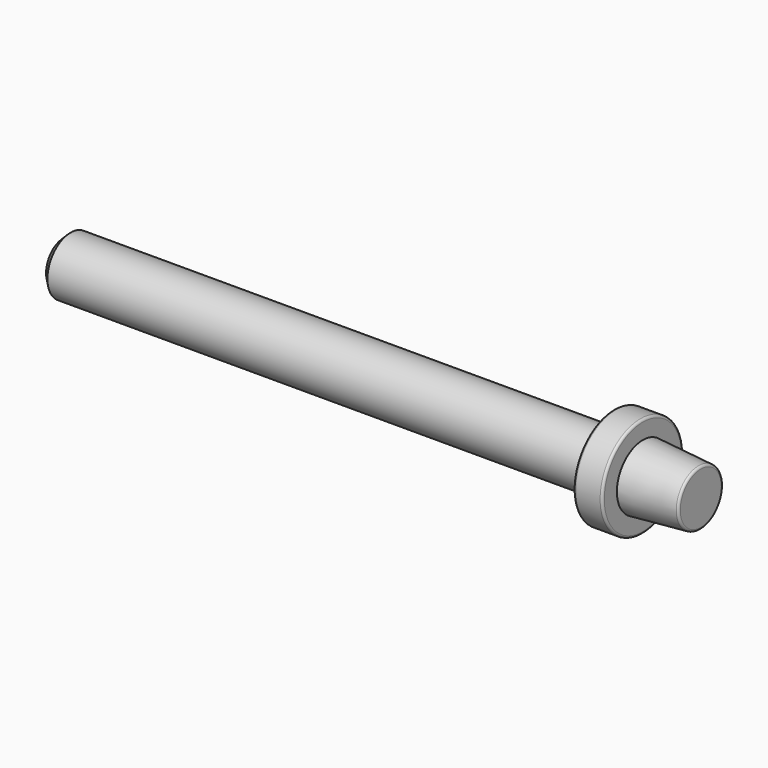
from build123d import *

# Parameters (mm, degrees)
F2_SIZE = 0.762
F3_R    = 0.254


with BuildPart() as f1:
    # F0 (on Top) → F1 (revolve)
    with BuildSketch(Plane.XY):
        Polygon((-69.85, 0), (0, 0), (0, 3.048), (-6.35, 3.556), (-6.35, 5.5372), (-9.525, 5.5372), (-9.525, 3.175), (-69.85, 3.175), align=None)
    revolve(axis=Axis((-34.925, 0, 0), (1, 0, 0)))

    # F2
    f2_edges = [f1.edges().sort_by_distance(p)[0] for p in [
        (-69.85, -3.175, 0),
    ]]
    chamfer(f2_edges, length=F2_SIZE)

    # F3
    f3_edges = [f1.edges().sort_by_distance(p)[0] for p in [
        (-9.525, -5.5372, 0),
        (-6.35, -5.5372, 0),
        (0, -3.048, 0),
    ]]
    fillet(f3_edges, radius=F3_R)


solid = f1.part
